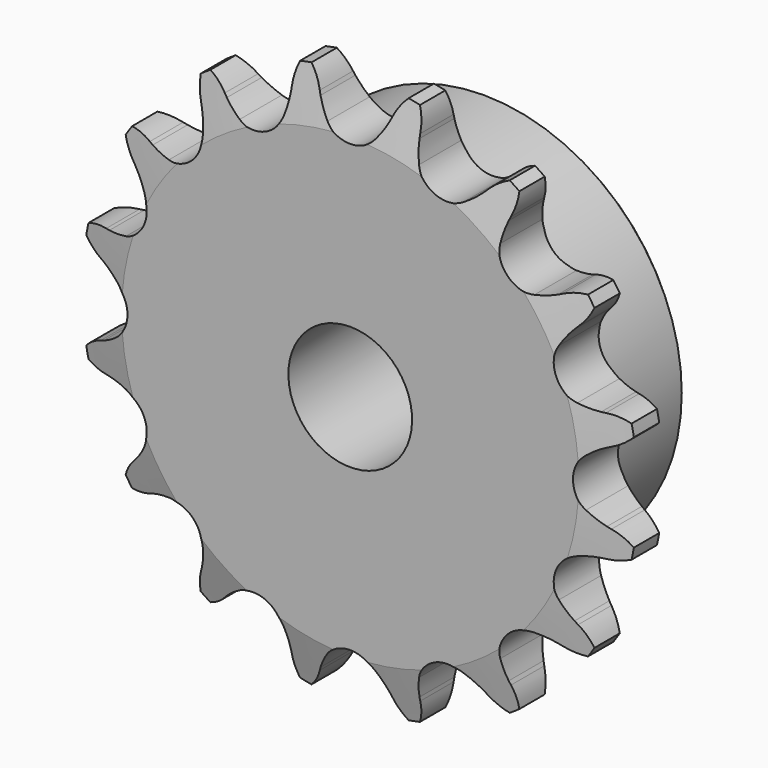
from build123d import *

# Parameters (mm, degrees)
F0_W     = 15.0114
F0_H     = 17.4625
F0_W_2   = 7.2136
F0_H_2   = 10.287
F2_R     = 1.5875
F3_SIZE  = 0.79375
F4_SIZE2 = 6.35
F4_SIZE  = 1.5748
F6_DEPTH = 22.226


with BuildPart() as f1:
    # F0 (on Right) → F1 (revolve)
    with BuildSketch(Plane.YZ):
        with Locations((14.7193, 16.66875)):
            Rectangle(F0_W, F0_H)
        with Locations((3.6068, 16.66875)):
            Rectangle(F0_W_2, F0_H)
        with Locations((3.6068, 30.5435)):
            Rectangle(F0_W_2, F0_H_2)
    revolve(axis=Axis((0, 8.1783687798, 0), (0, 1, 0)))

    # F2
    f2_edges = [f1.edges().sort_by_distance(p)[0] for p in [
        (0, 7.2136, -25.4),
    ]]
    fillet(f2_edges, radius=F2_R)

    # F3
    f3_edges = [f1.edges().sort_by_distance(p)[0] for p in [
        (0, 22.225, -25.4),
    ]]
    chamfer(f3_edges, length=F3_SIZE)

    # F4
    f4_edges = [f1.edges().sort_by_distance(p)[0] for p in [
        (0, 0, -35.687),
        (0, 7.2136, -35.687),
    ]]
    f4_side = f1.faces().sort_by_distance((0, 3.6068, -35.687))[0]
    chamfer(f4_edges, length=F4_SIZE, length2=F4_SIZE2, reference=f4_side)

    # F5 (on face) → F6 (intersect, through all)
    with BuildSketch(Plane.XZ):
        with BuildLine():
            Line((-4.4568878106, 32.3001493474), (-4.6543441054, 32.7687300461))
            ThreePointArc((-4.6543441054, 32.7687300461), (-5.6556124839, 34.509502454), (-7.1345852087, 35.8679819796))
            ThreePointArc((-7.1345852087, 35.8679819796), (-7.9811102306, 34.0469321919), (-8.2399968321, 32.0554993736))
            Line((-8.2399968321, 32.0554993736), (-8.2431045912, 31.5470240041))
            ThreePointArc((-8.2431045912, 31.5470240041), (-8.3658592885, 30.2423390761), (-8.6522824488, 28.963576686))
            ThreePointArc((-8.6522824488, 28.963576686), (-10.9400391594, 26.4115909116), (-14.3622538898, 26.5984290744))
            ThreePointArc((-14.3622538898, 26.5984290744), (-15.4690072063, 27.300118873), (-16.4783594451, 28.135869754))
            Line((-16.4783594451, 28.135869754), (-16.8401033445, 28.4932186183))
            ThreePointArc((-16.8401033445, 28.4932186183), (-18.431319466, 29.7183137969), (-20.3175797032, 30.4074068672))
            ThreePointArc((-20.3175797032, 30.4074068672), (-20.4027812614, 28.4010251397), (-19.8798729476, 26.4621095053))
            Line((-19.8798729476, 26.4621095053), (-19.688159043, 25.9911502307))
            ThreePointArc((-19.688159043, 25.9911502307), (-19.3022882889, 24.7388023405), (-19.0775476037, 23.4477705432))
            ThreePointArc((-19.0775476037, 23.4477705432), (-20.2145565285, 20.2145565285), (-23.4477705432, 19.0775476037))
            ThreePointArc((-23.4477705432, 19.0775476037), (-24.7388023405, 19.3022882889), (-25.9911502307, 19.688159043))
            Line((-25.9911502307, 19.688159043), (-26.4621095053, 19.8798729476))
            ThreePointArc((-26.4621095053, 19.8798729476), (-28.4010251397, 20.4027812614), (-30.4074068672, 20.3175797032))
            ThreePointArc((-30.4074068672, 20.3175797032), (-29.7183137969, 18.431319466), (-28.4932186183, 16.8401033445))
            Line((-28.4932186183, 16.8401033445), (-28.135869754, 16.4783594451))
            ThreePointArc((-28.135869754, 16.4783594451), (-27.300118873, 15.4690072063), (-26.5984290744, 14.3622538898))
            ThreePointArc((-26.5984290744, 14.3622538898), (-26.4115909116, 10.9400391594), (-28.963576686, 8.6522824488))
            ThreePointArc((-28.963576686, 8.6522824488), (-30.2423390761, 8.3658592885), (-31.5470240041, 8.2431045912))
            Line((-31.5470240041, 8.2431045912), (-32.0554993736, 8.2399968321))
            ThreePointArc((-32.0554993736, 8.2399968321), (-34.0469321919, 7.9811102306), (-35.8679819796, 7.1345852087))
            ThreePointArc((-35.8679819796, 7.1345852087), (-34.509502454, 5.6556124839), (-32.7687300461, 4.6543441054))
            Line((-32.7687300461, 4.6543441054), (-32.3001493474, 4.4568878106))
            ThreePointArc((-32.3001493474, 4.4568878106), (-31.1417538349, 3.8441959519), (-30.0699408338, 3.0902142758))
            ThreePointArc((-30.0699408338, 3.0902142758), (-28.5877, 0), (-30.0699408338, -3.0902142758))
            ThreePointArc((-30.0699408338, -3.0902142758), (-31.1417538349, -3.8441959519), (-32.3001493474, -4.4568878106))
            Line((-32.3001493474, -4.4568878106), (-32.7687300461, -4.6543441054))
            ThreePointArc((-32.7687300461, -4.6543441054), (-34.509502454, -5.6556124839), (-35.8679819796, -7.1345852087))
            ThreePointArc((-35.8679819796, -7.1345852087), (-34.0469321919, -7.9811102306), (-32.0554993736, -8.2399968321))
            Line((-32.0554993736, -8.2399968321), (-31.5470240041, -8.2431045912))
            ThreePointArc((-31.5470240041, -8.2431045912), (-30.2423390761, -8.3658592885), (-28.963576686, -8.6522824488))
            ThreePointArc((-28.963576686, -8.6522824488), (-26.4115909116, -10.9400391594), (-26.5984290744, -14.3622538898))
            ThreePointArc((-26.5984290744, -14.3622538898), (-27.300118873, -15.4690072063), (-28.135869754, -16.4783594451))
            Line((-28.135869754, -16.4783594451), (-28.4932186183, -16.8401033445))
            ThreePointArc((-28.4932186183, -16.8401033445), (-29.7183137969, -18.431319466), (-30.4074068672, -20.3175797032))
            ThreePointArc((-30.4074068672, -20.3175797032), (-28.4010251397, -20.4027812614), (-26.4621095053, -19.8798729476))
            Line((-26.4621095053, -19.8798729476), (-25.9911502307, -19.688159043))
            ThreePointArc((-25.9911502307, -19.688159043), (-24.7388023405, -19.3022882889), (-23.4477705432, -19.0775476037))
            ThreePointArc((-23.4477705432, -19.0775476037), (-20.2145565285, -20.2145565285), (-19.0775476037, -23.4477705432))
            ThreePointArc((-19.0775476037, -23.4477705432), (-19.3022882889, -24.7388023405), (-19.688159043, -25.9911502307))
            Line((-19.688159043, -25.9911502307), (-19.8798729476, -26.4621095053))
            ThreePointArc((-19.8798729476, -26.4621095053), (-20.4027812614, -28.4010251397), (-20.3175797032, -30.4074068672))
            ThreePointArc((-20.3175797032, -30.4074068672), (-18.431319466, -29.7183137969), (-16.8401033445, -28.4932186183))
            Line((-16.8401033445, -28.4932186183), (-16.4783594451, -28.135869754))
            ThreePointArc((-16.4783594451, -28.135869754), (-15.4690072063, -27.300118873), (-14.3622538898, -26.5984290744))
            ThreePointArc((-14.3622538898, -26.5984290744), (-10.9400391594, -26.4115909116), (-8.6522824488, -28.963576686))
            ThreePointArc((-8.6522824488, -28.963576686), (-8.3658592885, -30.2423390761), (-8.2431045912, -31.5470240041))
            Line((-8.2431045912, -31.5470240041), (-8.2399968321, -32.0554993736))
            ThreePointArc((-8.2399968321, -32.0554993736), (-7.9811102306, -34.0469321919), (-7.1345852087, -35.8679819796))
            ThreePointArc((-7.1345852087, -35.8679819796), (-5.6556124839, -34.509502454), (-4.6543441054, -32.7687300461))
            Line((-4.6543441054, -32.7687300461), (-4.4568878106, -32.3001493474))
            ThreePointArc((-4.4568878106, -32.3001493474), (-3.8441959519, -31.1417538349), (-3.0902142758, -30.0699408338))
            ThreePointArc((-3.0902142758, -30.0699408338), (0, -28.5877), (3.0902142758, -30.0699408338))
            ThreePointArc((3.0902142758, -30.0699408338), (3.8441959519, -31.1417538349), (4.4568878106, -32.3001493474))
            Line((4.4568878106, -32.3001493474), (4.6543441054, -32.7687300461))
            ThreePointArc((4.6543441054, -32.7687300461), (5.6556124839, -34.509502454), (7.1345852087, -35.8679819796))
            ThreePointArc((7.1345852087, -35.8679819796), (7.9811102306, -34.0469321919), (8.2399968321, -32.0554993736))
            Line((8.2399968321, -32.0554993736), (8.2431045912, -31.5470240041))
            ThreePointArc((8.2431045912, -31.5470240041), (8.3658592885, -30.2423390761), (8.6522824488, -28.963576686))
            ThreePointArc((8.6522824488, -28.963576686), (10.9400391594, -26.4115909116), (14.3622538898, -26.5984290744))
            ThreePointArc((14.3622538898, -26.5984290744), (15.4690072063, -27.300118873), (16.4783594451, -28.135869754))
            Line((16.4783594451, -28.135869754), (16.8401033445, -28.4932186183))
            ThreePointArc((16.8401033445, -28.4932186183), (18.431319466, -29.7183137969), (20.3175797032, -30.4074068672))
            ThreePointArc((20.3175797032, -30.4074068672), (20.4027812614, -28.4010251397), (19.8798729476, -26.4621095053))
            Line((19.8798729476, -26.4621095053), (19.688159043, -25.9911502307))
            ThreePointArc((19.688159043, -25.9911502307), (19.3022882889, -24.7388023405), (19.0775476037, -23.4477705432))
            ThreePointArc((19.0775476037, -23.4477705432), (20.2145565285, -20.2145565285), (23.4477705432, -19.0775476037))
            ThreePointArc((23.4477705432, -19.0775476037), (24.7388023405, -19.3022882889), (25.9911502307, -19.688159043))
            Line((25.9911502307, -19.688159043), (26.4621095053, -19.8798729476))
            ThreePointArc((26.4621095053, -19.8798729476), (28.4010251397, -20.4027812614), (30.4074068672, -20.3175797032))
            ThreePointArc((30.4074068672, -20.3175797032), (29.7183137969, -18.431319466), (28.4932186183, -16.8401033445))
            Line((28.4932186183, -16.8401033445), (28.135869754, -16.4783594451))
            ThreePointArc((28.135869754, -16.4783594451), (27.300118873, -15.4690072063), (26.5984290744, -14.3622538898))
            ThreePointArc((26.5984290744, -14.3622538898), (26.4115909116, -10.9400391594), (28.963576686, -8.6522824488))
            ThreePointArc((28.963576686, -8.6522824488), (30.2423390761, -8.3658592885), (31.5470240041, -8.2431045912))
            Line((31.5470240041, -8.2431045912), (32.0554993736, -8.2399968321))
            ThreePointArc((32.0554993736, -8.2399968321), (34.0469321919, -7.9811102306), (35.8679819796, -7.1345852087))
            ThreePointArc((35.8679819796, -7.1345852087), (34.509502454, -5.6556124839), (32.7687300461, -4.6543441054))
            Line((32.7687300461, -4.6543441054), (32.3001493474, -4.4568878106))
            ThreePointArc((32.3001493474, -4.4568878106), (31.1417538349, -3.8441959519), (30.0699408338, -3.0902142758))
            ThreePointArc((30.0699408338, -3.0902142758), (28.5877, 0), (30.0699408338, 3.0902142758))
            ThreePointArc((30.0699408338, 3.0902142758), (31.1417538349, 3.8441959519), (32.3001493474, 4.4568878106))
            Line((32.3001493474, 4.4568878106), (32.7687300461, 4.6543441054))
            ThreePointArc((32.7687300461, 4.6543441054), (34.509502454, 5.6556124839), (35.8679819796, 7.1345852087))
            ThreePointArc((35.8679819796, 7.1345852087), (34.0469321919, 7.9811102306), (32.0554993736, 8.2399968321))
            Line((32.0554993736, 8.2399968321), (31.5470240041, 8.2431045912))
            ThreePointArc((31.5470240041, 8.2431045912), (30.2423390761, 8.3658592885), (28.963576686, 8.6522824488))
            ThreePointArc((28.963576686, 8.6522824488), (26.4115909116, 10.9400391594), (26.5984290744, 14.3622538898))
            ThreePointArc((26.5984290744, 14.3622538898), (27.300118873, 15.4690072063), (28.135869754, 16.4783594451))
            Line((28.135869754, 16.4783594451), (28.4932186183, 16.8401033445))
            ThreePointArc((28.4932186183, 16.8401033445), (29.7183137969, 18.431319466), (30.4074068672, 20.3175797032))
            ThreePointArc((30.4074068672, 20.3175797032), (28.4010251397, 20.4027812614), (26.4621095053, 19.8798729476))
            Line((26.4621095053, 19.8798729476), (25.9911502307, 19.688159043))
            ThreePointArc((25.9911502307, 19.688159043), (24.7388023405, 19.3022882889), (23.4477705432, 19.0775476037))
            ThreePointArc((23.4477705432, 19.0775476037), (20.2145565285, 20.2145565285), (19.0775476037, 23.4477705432))
            ThreePointArc((19.0775476037, 23.4477705432), (19.3022882889, 24.7388023405), (19.688159043, 25.9911502307))
            Line((19.688159043, 25.9911502307), (19.8798729476, 26.4621095053))
            ThreePointArc((19.8798729476, 26.4621095053), (20.4027812614, 28.4010251397), (20.3175797032, 30.4074068672))
            ThreePointArc((20.3175797032, 30.4074068672), (18.431319466, 29.7183137969), (16.8401033445, 28.4932186183))
            Line((16.8401033445, 28.4932186183), (16.4783594451, 28.135869754))
            ThreePointArc((16.4783594451, 28.135869754), (15.4690072063, 27.300118873), (14.3622538898, 26.5984290744))
            ThreePointArc((14.3622538898, 26.5984290744), (10.9400391594, 26.4115909116), (8.6522824488, 28.963576686))
            ThreePointArc((8.6522824488, 28.963576686), (8.3658592885, 30.2423390761), (8.2431045912, 31.5470240041))
            Line((8.2431045912, 31.5470240041), (8.2399968321, 32.0554993736))
            ThreePointArc((8.2399968321, 32.0554993736), (7.9811102306, 34.0469321919), (7.1345852087, 35.8679819796))
            ThreePointArc((7.1345852087, 35.8679819796), (5.6556124839, 34.509502454), (4.6543441054, 32.7687300461))
            Line((4.6543441054, 32.7687300461), (4.4568878106, 32.3001493474))
            ThreePointArc((4.4568878106, 32.3001493474), (3.8441959519, 31.1417538349), (3.0902142758, 30.0699408338))
            ThreePointArc((3.0902142758, 30.0699408338), (0, 28.5877), (-3.0902142758, 30.0699408338))
            ThreePointArc((-3.0902142758, 30.0699408338), (-3.8441959519, 31.1417538349), (-4.4568878106, 32.3001493474))
        make_face()
    extrude(amount=-F6_DEPTH, mode=Mode.INTERSECT)


solid = f1.part
